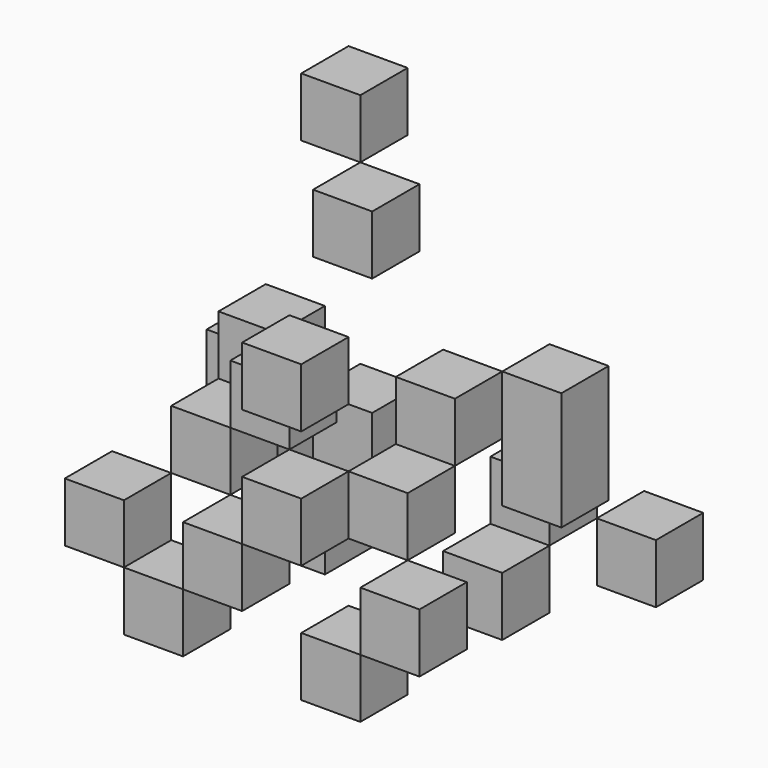
from build123d import *

# Parameters (mm, degrees)
F12_W     = 25
F12_H     = 25
F13_DEPTH = 25


with BuildPart() as f13:
    # F12 (on offset) → F13 (new body)
    with BuildSketch(Plane.YZ.offset(-75)):
        with Locations((62.5, -62.5)):
            Rectangle(F12_W, F12_H)
    extrude(amount=F13_DEPTH)


with BuildPart() as f14_1:
    # F14: copy of F13
    add(f13.part)


with BuildPart() as f15_1:
    # F15: copy of F14_1
    add(f14_1.part.moved(Location((0, -25, 25))))


with BuildPart() as f16_1:
    # F16: copy of F15_1
    add(f15_1.part.moved(Location((0, -25, 25))))


with BuildPart() as f15_1_1:
    # F17: moved
    add(f15_1.part.moved(Location((25, 0, 0))))


with BuildPart() as f18_1:
    # F18: instance of F13
    add(f13.part.mirror(Plane.XZ))


with BuildPart() as f18_2:
    # F18: instance of F16_1
    add(f16_1.part.mirror(Plane.XZ))


with BuildPart() as f18_3:
    # F18: instance of F15_1
    add(f15_1_1.part.mirror(Plane.XZ))


with BuildPart() as f18_4:
    # F18: instance of F14_1
    add(f14_1.part.mirror(Plane.XZ))


with BuildPart() as f18_2_1:
    # F19: moved
    add(f18_2.part.moved(Location((0, 0, 25))))


with BuildPart() as f18_2_2:
    # F20: moved
    add(f18_2_1.part.moved(Location((25, 0, 0))))


with BuildPart() as f18_3_1:
    # F21: moved
    add(f18_3.part.moved(Location((0, 0, 25))))


with BuildPart() as f18_1_1:
    # F21: moved
    add(f18_1.part.moved(Location((0, 0, 25))))


with BuildPart() as f18_4_1:
    # F22: moved
    add(f18_4.part.moved(Location((25, 0, 0))))


with BuildPart() as f23_1:
    # F23: instance of F13
    add(f13.part.mirror(Plane.YZ))


with BuildPart() as f23_2:
    # F23: instance of F18_2
    add(f18_2_2.part.mirror(Plane.YZ))



with BuildPart() as f23_3:
    # F23: instance of F18_4
    add(f18_4_1.part.mirror(Plane.YZ))


with BuildPart() as f23_4:
    # F23: instance of F18_3
    add(f18_3_1.part.mirror(Plane.YZ))


with BuildPart() as f23_5:
    # F23: instance of F16_1
    add(f16_1.part.mirror(Plane.YZ))


with BuildPart() as f23_6:
    # F23: instance of F15_1
    add(f15_1_1.part.mirror(Plane.YZ))


with BuildPart() as f23_7:
    # F23: instance of F18_1
    add(f18_1_1.part.mirror(Plane.YZ))


with BuildPart() as f23_8:
    # F23: instance of F14_1
    add(f14_1.part.mirror(Plane.YZ))


with BuildPart() as f24_1:
    # F24: copy of F23_7
    add(f23_7.part.moved(Location((-50, 0, 25))))


with BuildPart() as f24_2:
    # F24: copy of F23_3
    add(f23_3.part.moved(Location((-50, 0, 25))))


with BuildPart() as f25_1:
    # F25: copy of F24_1
    add(f24_1.part.moved(Location((0, 0, 50))))


with BuildPart() as f25_2:
    # F25: copy of F24_2
    add(f24_2.part.moved(Location((0, 0, 50))))


with BuildPart() as f25_2_1:
    # F26: moved
    add(f25_2.part.moved(Location((0, 25, 0))))


with BuildPart() as f23_2_1:
    add(f23_2.part)

    add(f23_5.part)  # F27 merges F23_5
    # F27: F15_1, F13, F23_5 across plane
    add(f15_1_1.part.mirror(Plane.XY))
    add(f13.part.mirror(Plane.XY))
    add(f23_5.part.mirror(Plane.XY))


with BuildPart() as f15_1_2:
    add(f15_1_1.part)

    add(f16_1.part)  # F28 merges F16_1

    add(f23_6.part)  # F28 merges F23_6
    # F28: F18_1, F18_4, F23_3 across plane
    add(f18_1_1.part.mirror(Plane.XZ.offset(25)))
    add(f18_4_1.part.mirror(Plane.XZ.offset(25)))
    add(f23_3.part.mirror(Plane.XZ.offset(25)))


solid = Compound([f13.part, f14_1.part, f18_2_2.part, f18_3_1.part, f18_1_1.part, f18_4_1.part, f23_1.part, f23_3.part, f23_4.part, f23_7.part, f23_8.part, f24_1.part, f24_2.part, f25_1.part, f25_2_1.part, f23_2_1.part, f15_1_2.part])
